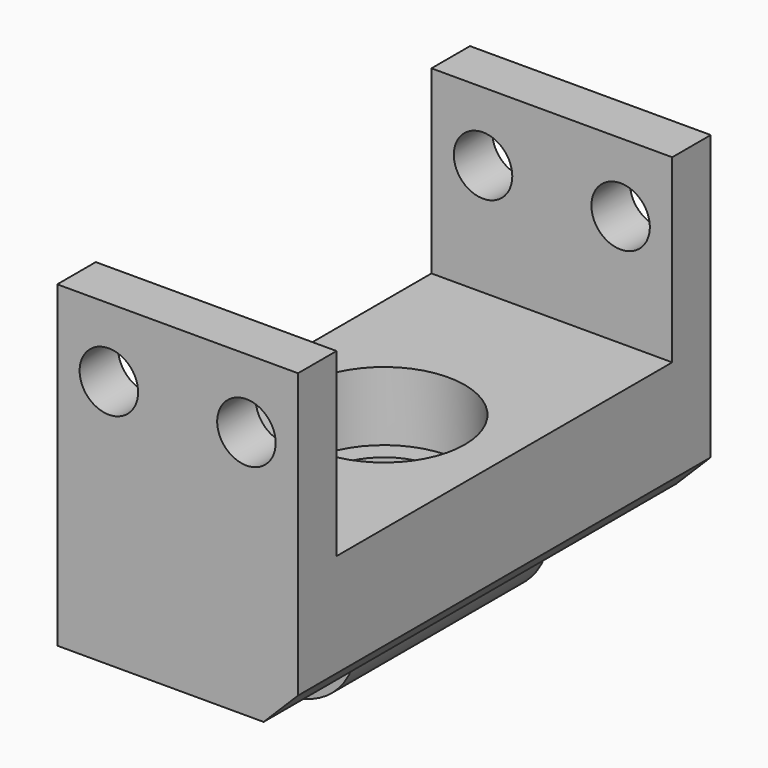
from build123d import *

# Parameters (mm, degrees)
CYLINDER036_R          = 3.5
CYLINDER036_DEPTH      = 30
CYLINDER035_R          = 4.7
CYLINDER035_DEPTH      = 30
CYLINDER065_R          = 2
CYLINDER065_DEPTH      = 62
CYLINDER066_R          = 4
CYLINDER066_DEPTH      = 14
CYLINDER066_ROLL_ANGLE = 90
CYLINDER030_R          = 1.7
CYLINDER030_DEPTH      = 19
CYLINDER030_ROLL_ANGLE = 90
CYLINDER033_R          = 1.7
CYLINDER033_DEPTH      = 19
CYLINDER033_ROLL_ANGLE = 90
CYLINDER034_R          = 1.7
CYLINDER034_DEPTH      = 19
CYLINDER034_ROLL_ANGLE = 90
CYLINDER029_R          = 1.7
CYLINDER029_DEPTH      = 19
CYLINDER029_ROLL_ANGLE = 90
BOX001012_W            = 14
BOX001012_H            = 2.8
BOX001012_DEPTH        = 11
BOX001011_W            = 14
BOX001011_H            = 2.8
BOX001011_DEPTH        = 11
BOX001010_W            = 14
BOX001010_H            = 30
BOX001010_DEPTH        = 8
CHAMFER011_SIZE        = 2


with BuildPart() as cylinder036:
    # Cylinder036 → Cylinder036 (new body)
    with BuildSketch(Plane.XY.offset(-9)):
        Circle(CYLINDER036_R)
    extrude(amount=CYLINDER036_DEPTH)


with BuildPart() as bearing_nut:
    # Cylinder035 → Cylinder035 (new body)
    with BuildSketch(Plane.XY.offset(-4.5)):
        Circle(CYLINDER035_R)
    extrude(amount=CYLINDER035_DEPTH)

    # Fusion080: union Cylinder036
    add(cylinder036.part)


with BuildPart() as cylinder065:
    # Cylinder065 → Cylinder065 (new body)
    with BuildSketch(Plane.XY.offset(-59)):
        Circle(CYLINDER065_R)
    extrude(amount=CYLINDER065_DEPTH)


with BuildPart() as cut035:
    # Cylinder066 → Cylinder066 (new body)
    with BuildSketch(Plane.XY):
        Circle(CYLINDER066_R)
    extrude(amount=CYLINDER066_DEPTH)


with BuildPart() as cut035_1:
    # Cylinder066 roll: moved
    add(cut035.part.rotate(Axis((0, 0, 0), (1, 0, 0)), CYLINDER066_ROLL_ANGLE))


with BuildPart() as cut035_2:
    # Cylinder066 placement: moved
    add(cut035_1.part.moved(Location((0, 7, -8))))

    # Cut035: cut Cylinder065
    add(cylinder065.part, mode=Mode.SUBTRACT)


with BuildPart() as cylinder030:
    # Cylinder030 → Cylinder030 (new body)
    with BuildSketch(Plane.XY):
        Circle(CYLINDER030_R)
    extrude(amount=CYLINDER030_DEPTH)


with BuildPart() as cylinder030_1:
    # Cylinder030 roll: moved
    add(cylinder030.part.rotate(Axis((0, 0, 0), (1, 0, 0)), CYLINDER030_ROLL_ANGLE))


with BuildPart() as cylinder030_2:
    # Cylinder030 placement: moved
    add(cylinder030_1.part.moved(Location((4, 24, 6))))


with BuildPart() as cylinder033:
    # Cylinder033 → Cylinder033 (new body)
    with BuildSketch(Plane.XY):
        Circle(CYLINDER033_R)
    extrude(amount=CYLINDER033_DEPTH)


with BuildPart() as cylinder033_1:
    # Cylinder033 roll: moved
    add(cylinder033.part.rotate(Axis((0, 0, 0), (1, 0, 0)), CYLINDER033_ROLL_ANGLE))


with BuildPart() as cylinder033_2:
    # Cylinder033 placement: moved
    add(cylinder033_1.part.moved(Location((4, 24, 6))))


with BuildPart() as part_mirroring002:
    # Part__Mirroring002: instance of Cylinder033
    add(cylinder033_2.part.mirror(Plane(origin=(0, 0, 0), x_dir=(1, 0, 0), z_dir=(0, 1, 0))))


with BuildPart() as cylinder034:
    # Cylinder034 → Cylinder034 (new body)
    with BuildSketch(Plane.XY):
        Circle(CYLINDER034_R)
    extrude(amount=CYLINDER034_DEPTH)


with BuildPart() as cylinder034_1:
    # Cylinder034 roll: moved
    add(cylinder034.part.rotate(Axis((0, 0, 0), (1, 0, 0)), CYLINDER034_ROLL_ANGLE))


with BuildPart() as cylinder034_2:
    # Cylinder034 placement: moved
    add(cylinder034_1.part.moved(Location((-4, 24, 6))))


with BuildPart() as part_mirroring003:
    # Part__Mirroring003: instance of Cylinder034
    add(cylinder034_2.part.mirror(Plane(origin=(0, 0, 0), x_dir=(1, 0, 0), z_dir=(0, 1, 0))))


with BuildPart() as m3_clear_a:
    # Cylinder029 → Cylinder029 (new body)
    with BuildSketch(Plane.XY):
        Circle(CYLINDER029_R)
    extrude(amount=CYLINDER029_DEPTH)


with BuildPart() as m3_clear_a_1:
    # Cylinder029 roll: moved
    add(m3_clear_a.part.rotate(Axis((0, 0, 0), (1, 0, 0)), CYLINDER029_ROLL_ANGLE))


with BuildPart() as m3_clear_a_2:
    # Cylinder029 placement: moved
    add(m3_clear_a_1.part.moved(Location((-4, 24, 6))))

    # Fusion057: union Cylinder030, Part__Mirroring002, Part__Mirroring003
    add(cylinder030_2.part)
    add(part_mirroring002.part)
    add(part_mirroring003.part)


with BuildPart() as cube010:
    # Box001012 → Box001012 (new body)
    with BuildSketch(Plane(origin=(-7, 12.2, -1), x_dir=(1, 0, 0), z_dir=(0, 0, 1))):
        with Locations((7, 1.4)):
            Rectangle(BOX001012_W, BOX001012_H)
    extrude(amount=BOX001012_DEPTH)


with BuildPart() as cube009:
    # Box001011 → Box001011 (new body)
    with BuildSketch(Plane(origin=(-7, -15, -1), x_dir=(1, 0, 0), z_dir=(0, 0, 1))):
        with Locations((7, 1.4)):
            Rectangle(BOX001011_W, BOX001011_H)
    extrude(amount=BOX001011_DEPTH)


with BuildPart() as bearing_clamp:
    # Box001010 → Box001010 (new body)
    with BuildSketch(Plane(origin=(-7, -15, -8.5), x_dir=(1, 0, 0), z_dir=(0, 0, 1))):
        with Locations((7, 15)):
            Rectangle(BOX001010_W, BOX001010_H)
    extrude(amount=BOX001010_DEPTH)

    # Fusion055: union Cube010, Cube009
    add(cube010.part)
    add(cube009.part)

    # Cut006: cut M3-clear-a
    add(m3_clear_a_2.part, mode=Mode.SUBTRACT)

    # Fusion081: union Cut035
    add(cut035_2.part)

    # Cut036: cut bearing-nut
    add(bearing_nut.part, mode=Mode.SUBTRACT)

    # Chamfer011
    chamfer011_edges = [bearing_clamp.edges().sort_by_distance(p)[0] for p in [
        (7, 0, -8.5),
    ]]
    chamfer(chamfer011_edges, length=CHAMFER011_SIZE)


solid = bearing_clamp.part
